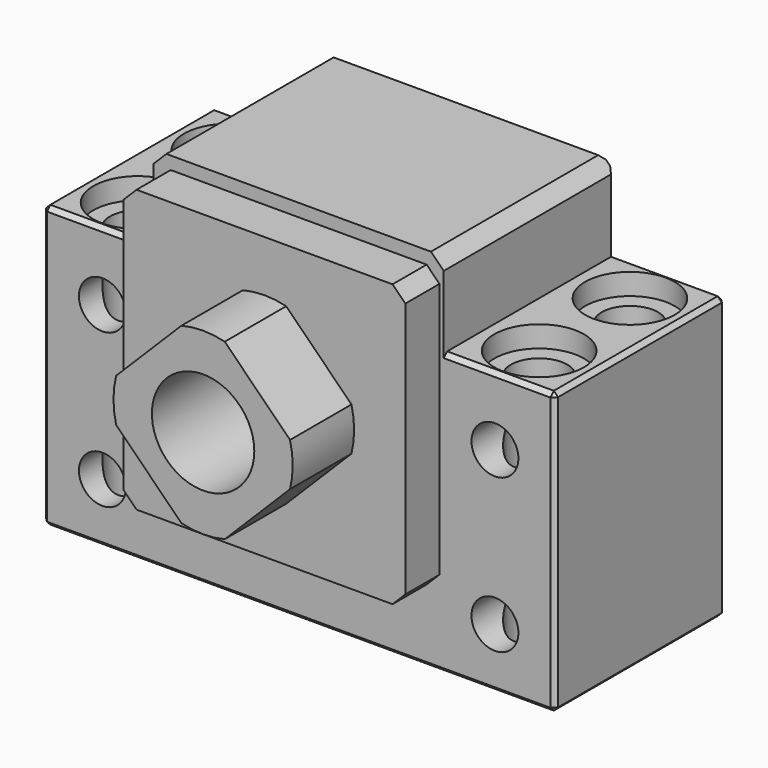
from build123d import *

# Parameters (mm, degrees)
F0_R          = 2.75
F0_R_2        = 6
F1_DEPTH      = 12.5
F2_SIZE       = 1.5
F3_R          = 16
F3_R_2        = 6
F4_DEPTH      = 20
F5_W          = 33
F5_H          = 33
F5_R          = 16
F5_R_2        = 6
F6_DEPTH      = 5
F6_DEPTH_BACK = 2
F7_SIZE       = 1.5
F8_R          = 5.25
F9_DEPTH      = 2.5
F10_R         = 3.3
F11_DEPTH     = 30.5
F12_R         = 6
F13_DEPTH     = 9
F14_SIZE      = 0.5


with BuildPart() as f1:
    # F0 (on Front) → F1 (new body, symmetric)
    with BuildSketch(Plane.XZ):
        Polygon((17, 18), (0, 18), (-17, 18), (-17, 8), (-30, 8), (-30, -25), (0, -25), (30, -25), (30, 8), (17, 8), align=None)
        with Locations((-23, -18)):
            Circle(F0_R, mode=Mode.SUBTRACT)
        with Locations((23, -18)):
            Circle(F0_R, mode=Mode.SUBTRACT)
        with Locations((-23, 0)):
            Circle(F0_R, mode=Mode.SUBTRACT)
        Circle(F0_R_2, mode=Mode.SUBTRACT)
        with Locations((23, 0)):
            Circle(F0_R, mode=Mode.SUBTRACT)
    extrude(amount=F1_DEPTH, both=True)

    # F2
    f2_edges = [f1.edges().sort_by_distance(p)[0] for p in [
        (17, 0, 18),
        (-17, 0, 18),
    ]]
    chamfer(f2_edges, length=F2_SIZE)

    # F3 (on face) → F4 (cut)
    with BuildSketch(Plane.XZ.offset(12.5)):
        Circle(F3_R)
        Circle(F3_R_2, mode=Mode.SUBTRACT)
    extrude(amount=-F4_DEPTH, mode=Mode.SUBTRACT)

    # F5 (on face) → F6 (join, two sides)
    with BuildSketch(Plane.XZ.offset(12.5)) as f6_sk:
        Rectangle(F5_W, F5_H)
        Circle(F5_R, mode=Mode.SUBTRACT)
        Circle(F5_R)
        Circle(F5_R_2, mode=Mode.SUBTRACT)
    extrude(amount=F6_DEPTH)
    extrude(f6_sk.sketch, amount=-F6_DEPTH_BACK)

    # F7
    f7_edges = [f1.edges().sort_by_distance(p)[0] for p in [
        (-16.5, -15, 16.5),
        (16.5, -15, 16.5),
        (16.5, -15, -16.5),
        (-16.5, -15, -16.5),
    ]]
    chamfer(f7_edges, length=F7_SIZE)

    # F8 (on face) → F9 (cut)
    with BuildSketch(Plane.XY.offset(8)):
        with Locations((23.5, 6.65)):
            Circle(F8_R)
        with Locations((23.5, -6.65)):
            Circle(F8_R)
        with Locations((-23.5, -6.65)):
            Circle(F8_R)
        with Locations((-23.5, 6.65)):
            Circle(F8_R)
    extrude(amount=-F9_DEPTH, mode=Mode.SUBTRACT)

    # F10 (on face) → F11 (cut, through all)
    with BuildSketch(Plane.XY.offset(5.5)):
        with Locations((-23.5, -6.65)):
            Circle(F10_R)
        with Locations((-23.5, 6.65)):
            Circle(F10_R)
        with Locations((23.5, 6.65)):
            Circle(F10_R)
        with Locations((23.5, -6.65)):
            Circle(F10_R)
    extrude(amount=-F11_DEPTH, mode=Mode.SUBTRACT)

    # F12 (on face) → F13 (join)
    with BuildSketch(Plane.XZ.offset(17.5)):
        with BuildLine():
            Line((-2.5396963955, 10.1882256659), (-10.1882256659, 2.5396963955))
            ThreePointArc((-10.1882256659, 2.5396963955), (-10.5, 0), (-10.1882256659, -2.5396963955))
            Line((-10.1882256659, -2.5396963955), (-2.5396963955, -10.1882256659))
            ThreePointArc((-2.5396963955, -10.1882256659), (0, -10.5), (2.5396963955, -10.1882256659))
            Line((2.5396963955, -10.1882256659), (10.1882256659, -2.5396963955))
            ThreePointArc((10.1882256659, -2.5396963955), (10.5, 0), (10.1882256659, 2.5396963955))
            Line((10.1882256659, 2.5396963955), (2.5396963955, 10.1882256659))
            ThreePointArc((2.5396963955, 10.1882256659), (0, 10.5), (-2.5396963955, 10.1882256659))
        make_face()
        Circle(F12_R, mode=Mode.SUBTRACT)
    extrude(amount=F13_DEPTH)

    # F14
    f14_edges = [f1.edges().sort_by_distance(p)[0] for p in [
        (30, 0, 8),
        (30, 0, -25),
        (-30, 0, 8),
        (-30, 0, -25),
        (-30, -12.5, -8.5),
        (0, -12.5, -25),
        (30, -12.5, -8.5),
        (0, 12.5, -25),
        (30, 12.5, -8.5),
        (23.5, 12.5, 8),
        (17, 12.5, 12.25),
        (0, 12.5, 18),
        (-17, 12.5, 12.25),
        (-23.5, 12.5, 8),
        (-30, 12.5, -8.5),
        (-23.5, -12.5, 8),
        (23.5, -12.5, 8),
    ]]
    chamfer(f14_edges, length=F14_SIZE)


solid = f1.part
